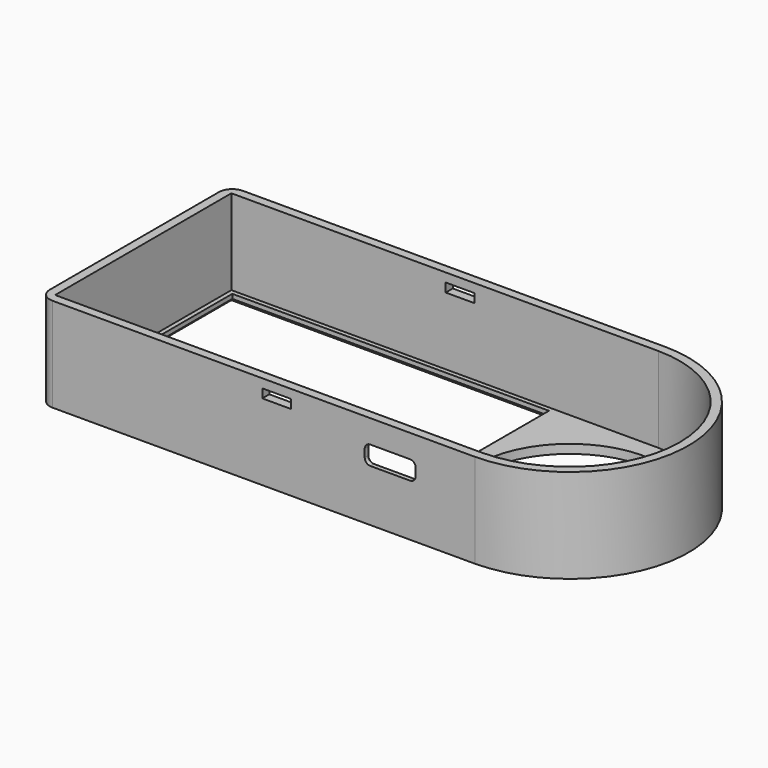
from build123d import *

# Parameters (mm, degrees)
BOX011_W          = 9.2
BOX011_H          = 10
BOX011_DEPTH      = 3.4
FILLET005_R       = 1
BOX010_W          = 5.2
BOX010_H          = 50
BOX010_DEPTH      = 1.6
BOX008_W          = 57.2
BOX008_H          = 38.2
BOX008_DEPTH      = 1.6
CYLINDER012_R     = 16.7
CYLINDER012_DEPTH = 1.6
CYLINDER011_R     = 19.9
CYLINDER011_DEPTH = 17
BOX007_W          = 77.1
BOX007_H          = 39.8
BOX007_DEPTH      = 17
CYLINDER010_R     = 21.5
CYLINDER010_DEPTH = 17
BOX006_W          = 78.7
BOX006_H          = 43
BOX006_DEPTH      = 17
FILLET002_R       = 2.4
CHAMFER005_SIZE   = 0.8
CHAMFER013_SIZE   = 0.8


with BuildPart() as usb:
    # Box011 → Box011 (new body)
    with BuildSketch(Plane(origin=(56.4, 45, 9.4), x_dir=(1, 0, 0), z_dir=(0, 0, 1))):
        with Locations((4.6, 5)):
            Rectangle(BOX011_W, BOX011_H)
    extrude(amount=BOX011_DEPTH)

    # Fillet005
    fillet005_edges = [usb.edges().sort_by_distance(p)[0] for p in [
        (56.4, 50, 12.8),
        (56.4, 50, 9.4),
        (65.6, 50, 12.8),
        (65.6, 50, 9.4),
    ]]
    fillet(fillet005_edges, radius=FILLET005_R)


with BuildPart() as obj1:
    # Box010 → Box010 (new body)
    with BuildSketch(Plane(origin=(37.9, 45, 13.8), x_dir=(1, 0, 0), z_dir=(0, 0, 1))):
        with Locations((2.6, 25)):
            Rectangle(BOX010_W, BOX010_H)
    extrude(amount=BOX010_DEPTH)


with BuildPart() as obj2:
    # Box008 → Box008 (new body)
    with BuildSketch(Plane(origin=(0, 50, 0), x_dir=(1, 0, 0), z_dir=(0, 0, 1))):
        with Locations((28.6, 19.1)):
            Rectangle(BOX008_W, BOX008_H)
    extrude(amount=BOX008_DEPTH)


with BuildPart() as zylinder012:
    # Cylinder012 → Cylinder012 (new body)
    with BuildSketch(Plane(origin=(76.2, 69.1, 0), x_dir=(1, 0, 0), z_dir=(0, 0, 1))):
        Circle(CYLINDER012_R)
    extrude(amount=CYLINDER012_DEPTH)


with BuildPart() as zylinder011:
    # Cylinder011 → Cylinder011 (new body)
    with BuildSketch(Plane(origin=(76.2, 69.1, 1.6), x_dir=(1, 0, 0), z_dir=(0, 0, 1))):
        Circle(CYLINDER011_R)
    extrude(amount=CYLINDER011_DEPTH)


with BuildPart() as fusion009:
    # Box007 → Box007 (new body)
    with BuildSketch(Plane(origin=(-0.8, 49.2, 1.6), x_dir=(1, 0, 0), z_dir=(0, 0, 1))):
        with Locations((38.55, 19.9)):
            Rectangle(BOX007_W, BOX007_H)
    extrude(amount=BOX007_DEPTH)

    # Fusion009: union Zylinder011
    add(zylinder011.part)


with BuildPart() as zylinder010:
    # Cylinder010 → Cylinder010 (new body)
    with BuildSketch(Plane(origin=(76.2, 69.1, 0), x_dir=(1, 0, 0), z_dir=(0, 0, 1))):
        Circle(CYLINDER010_R)
    extrude(amount=CYLINDER010_DEPTH)


with BuildPart() as top:
    # Box006 → Box006 (new body)
    with BuildSketch(Plane(origin=(-2.4, 47.6, 0), x_dir=(1, 0, 0), z_dir=(0, 0, 1))):
        with Locations((39.35, 21.5)):
            Rectangle(BOX006_W, BOX006_H)
    extrude(amount=BOX006_DEPTH)

    # Fusion008: union Zylinder010
    add(zylinder010.part)

    # Cut004: cut Fusion009
    add(fusion009.part, mode=Mode.SUBTRACT)

    # Fillet002
    fillet002_edges = [top.edges().sort_by_distance(p)[0] for p in [
        (-2.4, 47.6, 8.5),
        (-2.4, 90.6, 8.5),
    ]]
    fillet(fillet002_edges, radius=FILLET002_R)

    # Cut005: cut Zylinder012
    add(zylinder012.part, mode=Mode.SUBTRACT)

    # Cut006: cut obj2
    add(obj2.part, mode=Mode.SUBTRACT)

    # Chamfer005
    chamfer005_edges = [top.edges().sort_by_distance(p)[0] for p in [
        (57.2, 83.681153, 0),
        (28.6, 88.2, 0),
        (0, 69.1, 0),
        (28.6, 50, 0),
        (57.2, 54.518847, 0),
        (57.2, 69.1, 0),
    ]]
    chamfer(chamfer005_edges, length=CHAMFER005_SIZE)

    # Cut011: cut obj1
    add(obj1.part, mode=Mode.SUBTRACT)

    # Cut018: cut USB
    add(usb.part, mode=Mode.SUBTRACT)

    # Chamfer013
    chamfer013_edges = [top.edges().sort_by_distance(p)[0] for p in [
        (56.692893, 49.2, 12.507107),
        (61, 49.2, 12.8),
        (65.307107, 49.2, 12.507107),
        (65.6, 49.2, 11.1),
        (65.307107, 49.2, 9.692893),
        (61, 49.2, 9.4),
        (56.692893, 49.2, 9.692893),
        (56.4, 49.2, 11.1),
    ]]
    chamfer(chamfer013_edges, length=CHAMFER013_SIZE)


solid = top.part
